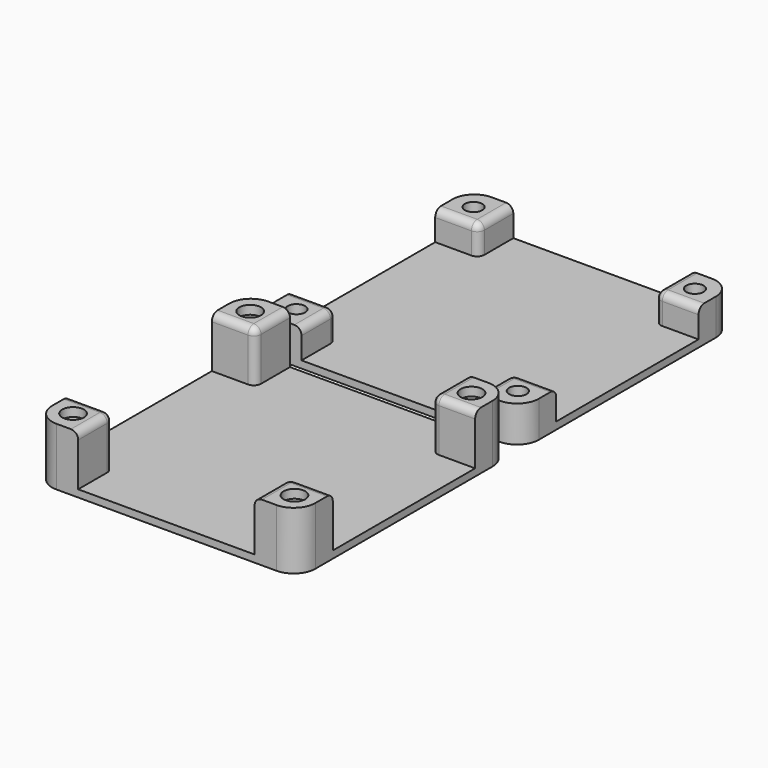
from build123d import *

# Parameters (mm, degrees)
F1_DEPTH = 1
F0_W     = 6
F0_H     = 6
F0_R     = 1.2
F2_DEPTH = 5
F0_R_2   = 2.5
F0_R_3   = 1.5
F3_DEPTH = 8
F4_DEPTH = 6.8
F5_R     = 3
F5_2_R   = 3
F6_R     = 1
F6_2_R   = 1


with BuildPart() as f1:
    # F0 (on Top) → F1 (new body)
    with BuildSketch(Plane.XY):
        Polygon((-12.2, -18.3), (12.2, -18.3), (12.2, -12.3), (18.2, -12.3), (18.2, 12.3), (12.2, 12.3), (12.2, 18.3), (-12.2, 18.3), (-12.2, 12.3), (-18.2, 12.3), (-18.2, -12.3), (-12.2, -12.3), align=None)
    extrude(amount=F1_DEPTH)

    # F0 (on Top) → F2 (join)
    with BuildSketch(Plane.XY):
        with Locations((-15.2, -15.3)):
            Rectangle(F0_W, F0_H)
        with Locations((-15.3, -15.3)):
            Circle(F0_R, mode=Mode.SUBTRACT)
        with Locations((15.2, -15.3)):
            Rectangle(F0_W, F0_H)
        with Locations((15.3, -15.3)):
            Circle(F0_R, mode=Mode.SUBTRACT)
        with Locations((-15.2, 15.3)):
            Rectangle(F0_W, F0_H)
        with Locations((-15.3, 15.3)):
            Circle(F0_R, mode=Mode.SUBTRACT)
        with Locations((15.2, 15.3)):
            Rectangle(F0_W, F0_H)
        with Locations((15.3, 15.3)):
            Circle(F0_R, mode=Mode.SUBTRACT)
    extrude(amount=F2_DEPTH)

    # F5
    f5_edges = [f1.edges().sort_by_distance(p)[0] for p in [
        (-18.2, -18.3, 2.5),
        (-18.2, 18.3, 2.5),
        (18.2, -18.3, 2.5),
        (18.2, 18.3, 2.5),
    ]]
    fillet(f5_edges, radius=F5_R)

    # F6#2
    f6_2_edges = [f1.edges().sort_by_distance(p)[0] for p in [
        (-12.2, -12.3, 3),
        (-12.2, -15.3, 5),
        (-15.2, -12.3, 5),
        (12.2, -15.3, 5),
        (15.2, -12.3, 5),
        (12.2, -12.3, 3),
        (15.2, 12.3, 5),
        (12.2, 15.3, 5),
        (-12.2, 15.3, 5),
        (-12.2, 12.3, 3),
        (-15.2, 12.3, 5),
        (12.2, 12.3, 3),
    ]]
    fillet(f6_2_edges, radius=F6_2_R)


with BuildPart() as f1b:
    # F0 (on Top) → F1, piece 2 (new body)
    with BuildSketch(Plane.XY):
        Polygon((12.2, -50.9), (18.2, -50.9), (18.2, -26.3), (12.2, -26.3), (12.2, -20.3), (-12.2, -20.3), (-12.2, -26.3), (-18.2, -26.3), (-18.2, -50.9), (-12.2, -50.9), (-12.2, -56.9), (12.2, -56.9), align=None)
    extrude(amount=F1_DEPTH)

    # F0 (on Top) → F3 (join)
    with BuildSketch(Plane.XY):
        with Locations((-15.2, -23.3)):
            Rectangle(F0_W, F0_H)
        with Locations((-15.3, -23.3)):
            Circle(F0_R_2, mode=Mode.SUBTRACT)
        with Locations((15.2, -23.3)):
            Rectangle(F0_W, F0_H)
        with Locations((15.3, -23.3)):
            Circle(F0_R_2, mode=Mode.SUBTRACT)
        with Locations((15.2, -53.9)):
            Rectangle(F0_W, F0_H)
        with Locations((15.3, -53.9)):
            Circle(F0_R_2, mode=Mode.SUBTRACT)
        with Locations((-15.2, -53.9)):
            Rectangle(F0_W, F0_H)
        with Locations((-15.3, -53.9)):
            Circle(F0_R_2, mode=Mode.SUBTRACT)
        with Locations((-15.3, -23.3)):
            Circle(F0_R_2)
        with Locations((-15.3, -23.3)):
            Circle(F0_R_3, mode=Mode.SUBTRACT)
        with Locations((15.3, -23.3)):
            Circle(F0_R_2)
        with Locations((15.3, -23.3)):
            Circle(F0_R_3, mode=Mode.SUBTRACT)
        with Locations((15.3, -53.9)):
            Circle(F0_R_2)
        with Locations((15.3, -53.9)):
            Circle(F0_R_3, mode=Mode.SUBTRACT)
        with Locations((-15.3, -53.9)):
            Circle(F0_R_2)
        with Locations((-15.3, -53.9)):
            Circle(F0_R_3, mode=Mode.SUBTRACT)
    extrude(amount=F3_DEPTH)

    # F0 (on Top) → F4 (cut)
    with BuildSketch(Plane.XY):
        with Locations((-15.3, -23.3)):
            Circle(F0_R_2)
        with Locations((-15.3, -23.3)):
            Circle(F0_R_3, mode=Mode.SUBTRACT)
        with Locations((15.3, -23.3)):
            Circle(F0_R_2)
        with Locations((15.3, -23.3)):
            Circle(F0_R_3, mode=Mode.SUBTRACT)
        with Locations((15.3, -53.9)):
            Circle(F0_R_2)
        with Locations((15.3, -53.9)):
            Circle(F0_R_3, mode=Mode.SUBTRACT)
        with Locations((-15.3, -53.9)):
            Circle(F0_R_2)
        with Locations((-15.3, -53.9)):
            Circle(F0_R_3, mode=Mode.SUBTRACT)
    extrude(amount=F4_DEPTH, mode=Mode.SUBTRACT)

    # F5#2
    f5_2_edges = [f1b.edges().sort_by_distance(p)[0] for p in [
        (-18.2, -20.3, 4),
        (-18.2, -56.9, 4),
        (18.2, -56.9, 4),
        (18.2, -20.3, 4),
    ]]
    fillet(f5_2_edges, radius=F5_2_R)

    # F6
    f6_edges = [f1b.edges().sort_by_distance(p)[0] for p in [
        (15.2, -50.9, 8),
        (-12.2, -53.9, 8),
        (-15.2, -50.9, 8),
        (-12.2, -50.9, 4.5),
        (12.2, -50.9, 4.5),
        (12.2, -53.9, 8),
        (12.2, -23.3, 8),
        (15.2, -26.3, 8),
        (12.2, -26.3, 4.5),
        (-12.2, -23.3, 8),
        (-15.2, -26.3, 8),
        (-12.2, -26.3, 4.5),
    ]]
    fillet(f6_edges, radius=F6_R)


solid = Compound([f1.part, f1b.part])
